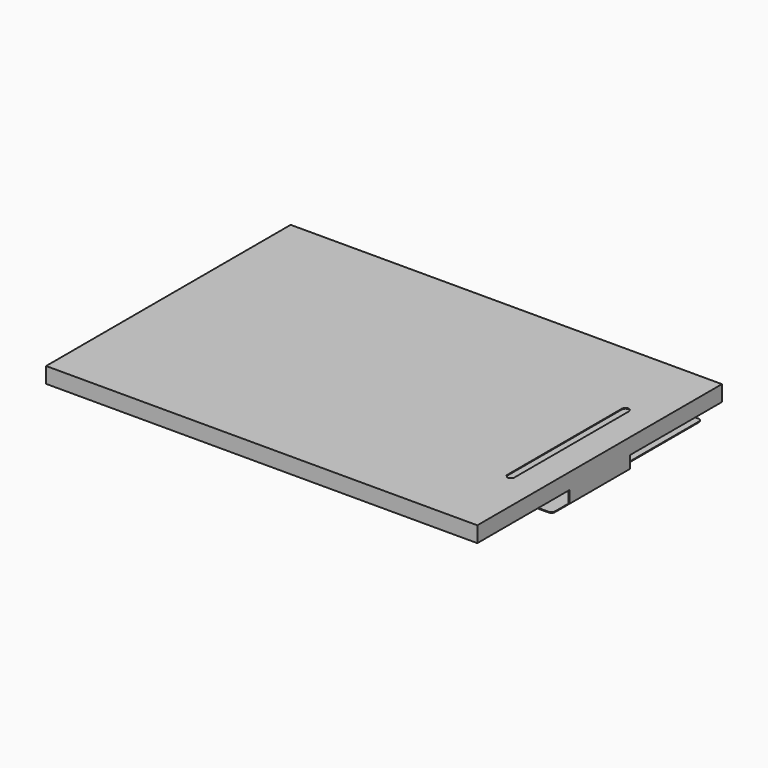
from build123d import *

# Parameters (mm, degrees)
SKETCH_W     = 57.26
SKETCH_H     = 40.62
PAD_DEPTH    = 2.2
SKETCH001_W  = 60.26
SKETCH001_H  = 42.72
PAD001_DEPTH = 2.2
SKETCH002_W  = 0.1
SKETCH002_H  = 10.6
PAD002_DEPTH = 1.7
SKETCH003_W  = 10.6
SKETCH003_H  = 0.1
PAD003_DEPTH = 17.4
SKETCH004_W  = 49.66
SKETCH004_H  = 37.42
PAD004_DEPTH = 1
FILLET_R     = 0.5
SKETCH005_W  = 10
SKETCH005_H  = 0.1
PAD005_DEPTH = 13.8
FILLET001_R  = 0.5
SKETCH006_W  = 10
SKETCH006_H  = 0.1
PAD006_DEPTH = 3
POCKET_DEPTH = 0.1
FILLET002_R  = 0.5
FILLET003_R  = 0.5


with BuildPart() as part:
    # Sketch → Pad (new body)
    with BuildSketch(Plane.XY):
        Rectangle(SKETCH_W, SKETCH_H)
    extrude(amount=PAD_DEPTH)

    # Sketch001 (on Face6 of Pad) → Pad001 (join)
    with BuildSketch(Plane.XY.offset(2.2)):
        Rectangle(SKETCH001_W, SKETCH001_H)
    extrude(amount=-PAD001_DEPTH)

    # Sketch002 (on Face5 of Pad001) → Pad002 (join)
    with BuildSketch(Plane(origin=(0, 0, 0), x_dir=(1, 0, 0), z_dir=(0, 0, -1))):
        with Locations((30.08, 0)):
            Rectangle(SKETCH002_W, SKETCH002_H)
    extrude(amount=PAD002_DEPTH)

    # Sketch003 (on Face10 of Pad002) → Pad003 (join)
    with BuildSketch(Plane(origin=(30.03, 0, 0), x_dir=(0, -1, 0), z_dir=(-1, 0, 0))):
        with Locations((0, -1.65)):
            Rectangle(SKETCH003_W, SKETCH003_H)
    extrude(amount=PAD003_DEPTH)

    # Sketch004 (on Face8 of Pad003) → Pad004 (join)
    with BuildSketch(Plane.XY.offset(2.2)):
        with Locations((-2.2, 0)):
            Rectangle(SKETCH004_W, SKETCH004_H)
    extrude(amount=-PAD004_DEPTH)

    # Fillet
    fillet_edges = [part.edges().sort_by_distance(p)[0] for p in [
        (12.63, -5.3, -1.65),
        (12.63, 5.3, -1.65),
    ]]
    fillet(fillet_edges, radius=FILLET_R)

    # Sketch005 (on Face1 of Fillet) → Pad005 (join)
    with BuildSketch(Plane(origin=(0, 5.3, 0), x_dir=(-1, 0, 0), z_dir=(0, 1, 0))):
        with Locations((-24.13, -1.65)):
            Rectangle(SKETCH005_W, SKETCH005_H)
    extrude(amount=PAD005_DEPTH)

    # Fillet001
    fillet001_edges = [part.edges().sort_by_distance(p)[0] for p in [
        (19.13, 19.1, -1.65),
        (29.13, 19.1, -1.65),
    ]]
    fillet(fillet001_edges, radius=FILLET001_R)

    # Sketch006 (on Face16 of Fillet001) → Pad006 (join)
    with BuildSketch(Plane.XZ.offset(5.3)):
        with Locations((25.13, -1.65)):
            Rectangle(SKETCH006_W, SKETCH006_H)
    extrude(amount=PAD006_DEPTH)

    # Sketch007 (on Face33 of Pad006) → Pocket (cut)
    with BuildSketch(Plane.XY.offset(2.2)):
        with BuildLine():
            ThreePointArc((26.23, 10), (25.73, 10.5), (25.23, 10))
            Line((25.23, 10), (25.23, -10))
            ThreePointArc((25.23, -10), (25.73, -10.5), (26.23, -10))
            Line((26.23, -10), (26.23, 10))
        make_face()
    extrude(amount=-POCKET_DEPTH, mode=Mode.SUBTRACT)

    # Fillet002
    fillet002_edges = [part.edges().sort_by_distance(p)[0] for p in [
        (20.13, -8.3, -1.65),
    ]]
    fillet(fillet002_edges, radius=FILLET002_R)

    # Fillet003
    fillet003_edges = [part.edges().sort_by_distance(p)[0] for p in [
        (30.13, -8.3, -1.65),
    ]]
    fillet(fillet003_edges, radius=FILLET003_R)


solid = part.part
